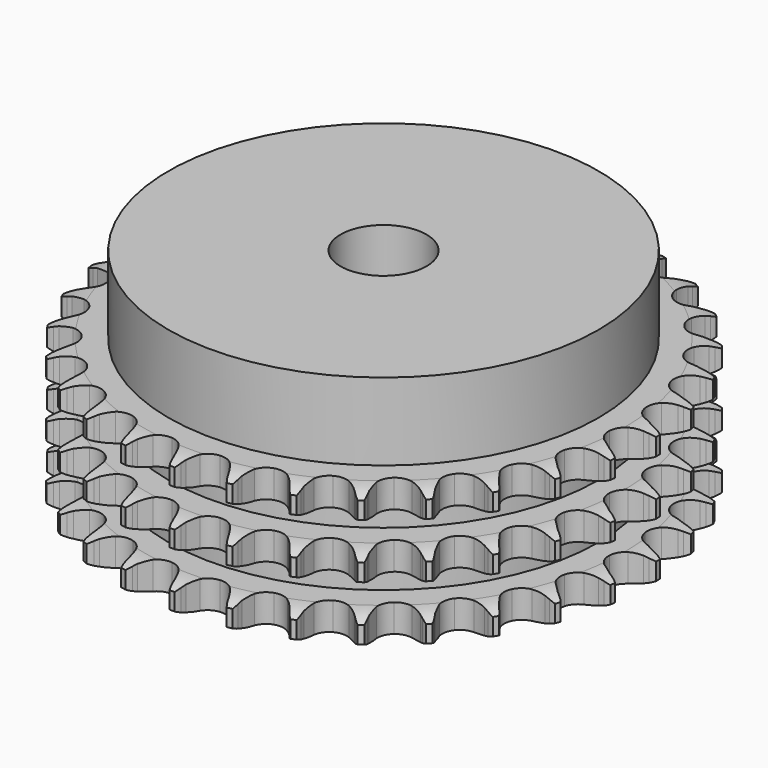
from build123d import *

# Parameters (mm, degrees)
PAD_DEPTH         = 25.6
SKETCH001_R       = 40
PAD001_DEPTH      = 40
SKETCH002_R       = 8
POCKET_DEPTH      = 0.001
POCKET_DEPTH_BACK = 40.001


with BuildPart() as part:
    # Sprocket → Pad (new body)
    with BuildSketch(Plane.XY):
        with BuildLine():
            ThreePointArc((-5.051205, 49.672555), (-4.455284, 48.887178), (-4.019635, 48.002785))
            Line((-4.019635, 48.002785), (-3.709921, 47.184961))
            ThreePointArc((-3.709921, 47.184961), (-3.217996, 46.119865), (-2.580961, 45.134672))
            ThreePointArc((-2.580961, 45.134672), (-1.442388, 44.186103), (0, 43.846037))
            ThreePointArc((0, 43.846037), (1.442388, 44.186103), (2.580961, 45.134672))
            ThreePointArc((2.580961, 45.134672), (3.217996, 46.119865), (3.709921, 47.184961))
            Line((3.709921, 47.184961), (4.019635, 48.002785))
            ThreePointArc((4.019635, 48.002785), (4.455284, 48.887178), (5.051205, 49.672555))
            ThreePointArc((5.051205, 49.672555), (5.476833, 48.783296), (5.725536, 47.829312))
            Line((5.725536, 47.829312), (5.864284, 46.965883))
            ThreePointArc((5.864284, 46.965883), (6.131737, 45.823566), (6.557414, 44.730306))
            ThreePointArc((6.557414, 44.730306), (7.481735, 43.571962), (8.826142, 42.948506))
            ThreePointArc((8.826142, 42.948506), (10.30746, 42.99126), (11.613671, 43.691219))
            Line((11.613671, 43.691219), (13.132241, 45.47228))
            ThreePointArc((13.132241, 45.47228), (13.356516, 45.847811), (13.600243, 46.211018))
            ThreePointArc((13.600243, 46.211018), (14.205, 46.989612), (14.946818, 47.638955))
            ThreePointArc((14.946818, 47.638955), (15.184727, 46.682221), (15.236304, 45.697701))
            Line((15.236304, 45.697701), (15.198405, 44.824017))
            ThreePointArc((15.198405, 44.824017), (15.230436, 43.651246), (15.427328, 42.494676))
            ThreePointArc((15.427328, 42.494676), (16.099555, 41.173979), (17.290942, 40.292658))
            ThreePointArc((17.290942, 40.292658), (18.750543, 40.03635), (20.170916, 40.459042))
            Line((20.170916, 40.459042), (22.016926, 41.897959))
            ThreePointArc((22.016926, 41.897959), (22.312204, 42.220656), (22.624054, 42.527367))
            ThreePointArc((22.624054, 42.527367), (23.373162, 43.168286), (24.230507, 43.65501))
            ThreePointArc((24.230507, 43.65501), (24.270957, 42.66997), (24.123296, 41.695221))
            Line((24.123296, 41.695221), (23.910301, 40.847051))
            ThreePointArc((23.910301, 40.847051), (23.705599, 39.691838), (23.665645, 38.519309))
            ThreePointArc((23.665645, 38.519309), (24.058257, 37.090329), (25.047847, 35.987224))
            ThreePointArc((25.047847, 35.987224), (26.425976, 35.442348), (27.902361, 35.570468))
            Line((27.902361, 35.570468), (30.000236, 36.608331))
            ThreePointArc((30.000236, 36.608331), (30.354428, 36.864983), (30.721635, 37.102641))
            ThreePointArc((30.721635, 37.102641), (31.584425, 37.579646), (32.522196, 37.883824))
            ThreePointArc((32.522196, 37.883824), (32.363531, 36.910806), (32.022676, 35.985733))
            Line((32.022676, 35.985733), (31.643306, 35.197801))
            ThreePointArc((31.643306, 35.197801), (31.210253, 34.107441), (30.935088, 32.966957))
            ThreePointArc((30.935088, 32.966957), (31.032011, 31.488196), (31.779292, 30.208469))
            ThreePointArc((31.779292, 30.208469), (33.019527, 29.397331), (34.491481, 29.225634))
            Line((34.491481, 29.225634), (36.755332, 29.819953))
            ThreePointArc((36.755332, 29.819953), (37.153937, 30.000053), (37.561468, 30.158928))
            ThreePointArc((37.561468, 30.158928), (38.502617, 30.452491), (39.482423, 30.56167))
            ThreePointArc((39.482423, 30.56167), (39.131138, 29.640508), (38.611045, 28.802986))
            Line((38.611045, 28.802986), (38.080831, 28.107549))
            ThreePointArc((38.080831, 28.107549), (37.437154, 27.126682), (36.938045, 26.064934))
            ThreePointArc((36.938045, 26.064934), (36.735311, 24.596933), (37.209688, 23.192976))
            ThreePointArc((37.209688, 23.192976), (38.261254, 22.148784), (39.668515, 21.6843))
            Line((39.668515, 21.6843), (42.005661, 21.810743))
            ThreePointArc((42.005661, 21.810743), (42.43236, 21.906918), (42.86353, 21.980505))
            ThreePointArc((42.86353, 21.980505), (43.844507, 22.078607), (44.826234, 21.988318))
            ThreePointArc((44.826234, 21.988318), (44.296712, 21.156725), (43.618673, 20.441041))
            Line((43.618673, 20.441041), (42.959322, 19.866571))
            ThreePointArc((42.959322, 19.866571), (42.131375, 19.035354), (41.428753, 18.09581))
            ThreePointArc((41.428753, 18.09581), (40.934663, 16.698668), (41.116715, 15.227959))
            ThreePointArc((41.116715, 15.227959), (41.936562, 13.993463), (43.221516, 13.255207))
            Line((43.221516, 13.255207), (45.536272, 12.908598))
            ThreePointArc((45.536272, 12.908598), (45.973598, 12.916911), (46.410754, 12.902198))
            ThreePointArc((46.410754, 12.902198), (47.391398, 12.800822), (48.334854, 12.514761))
            ThreePointArc((48.334854, 12.514761), (47.648773, 11.806783), (46.840548, 11.242237))
            Line((46.840548, 11.242237), (46.079054, 10.812253))
            ThreePointArc((46.079054, 10.812253), (45.100731, 10.164716), (44.223364, 9.385841))
            ThreePointArc((44.223364, 9.385841), (43.458146, 8.116759), (43.340419, 6.639508))
            ThreePointArc((43.340419, 6.639508), (43.894981, 5.265248), (45.005022, 4.283445))
            Line((45.005022, 4.283445), (47.202624, 3.477974))
            ThreePointArc((47.202624, 3.477974), (47.63267, 3.398084), (48.057917, 3.295673))
            ThreePointArc((48.057917, 3.295673), (48.99808, 2.99897), (49.86464, 2.528848))
            ThreePointArc((49.86464, 2.528848), (49.050088, 1.97347), (48.144765, 1.583175))
            Line((48.144765, 1.583175), (47.312303, 1.31528))
            ThreePointArc((47.312303, 1.31528), (46.223659, 0.877933), (45.207465, 0.291614))
            ThreePointArc((45.207465, 0.291614), (44.202446, -0.797452), (43.789761, -2.220765))
            ThreePointArc((43.789761, -2.220765), (44.056335, -3.678526), (44.946018, -4.863682))
            Line((44.946018, -4.863682), (46.936495, -6.095038))
            ThreePointArc((46.936495, -6.095038), (47.341656, -6.259861), (47.737582, -6.445777))
            ThreePointArc((47.737582, -6.445777), (48.598775, -6.92566), (49.352961, -7.560596))
            ThreePointArc((49.352961, -7.560596), (48.443286, -7.940637), (47.477929, -8.140703))
            Line((47.477929, -8.140703), (46.608582, -8.23554))
            ThreePointArc((46.608582, -8.23554), (45.454185, -8.444793), (44.340767, -8.814551))
            ThreePointArc((44.340767, -8.814551), (43.137094, -9.679016), (42.446345, -10.99012))
            ThreePointArc((42.446345, -10.99012), (42.414017, -12.471702), (43.046919, -13.811689))
            Line((43.046919, -13.811689), (44.74878, -15.41852))
            ThreePointArc((44.74878, -15.41852), (45.112469, -15.661527), (45.462866, -15.923336))
            ThreePointArc((45.462866, -15.923336), (46.20983, -16.566753), (46.820767, -17.340508))
            ThreePointArc((46.820767, -17.340508), (45.853211, -17.529653), (44.867342, -17.531299))
            Line((44.867342, -17.531299), (43.996699, -17.449197))
            ThreePointArc((43.996699, -17.449197), (42.823811, -17.421787), (41.658753, -17.559847))
            ThreePointArc((41.658753, -17.559847), (40.305703, -18.164319), (39.365171, -19.309538))
            ThreePointArc((39.365171, -19.309538), (39.035265, -20.754284), (39.385473, -22.194244))
            Line((39.385473, -22.194244), (40.729044, -24.110765))
            ThreePointArc((40.729044, -24.110765), (41.036372, -24.422008), (41.326894, -24.748992))
            ThreePointArc((41.326894, -24.748992), (41.929049, -25.529601), (42.371724, -26.410498))
            ThreePointArc((42.371724, -26.410498), (41.3859, -26.401004), (40.41988, -26.204162))
            Line((40.41988, -26.204162), (39.583587, -25.948481))
            ThreePointArc((39.583587, -25.948481), (38.440225, -25.685532), (37.271225, -25.586241))
            ThreePointArc((37.271225, -25.586241), (35.824193, -25.905972), (34.672382, -26.838422))
            ThreePointArc((34.672382, -26.838422), (34.058404, -28.187184), (34.111582, -29.668164))
            Line((34.111582, -29.668164), (35.041857, -31.815912))
            ThreePointArc((35.041857, -31.815912), (35.280241, -32.182649), (35.498995, -32.561422))
            ThreePointArc((35.498995, -32.561422), (35.931688, -33.447264), (36.187978, -34.399239))
            ThreePointArc((36.187978, -34.399239), (35.224245, -34.191494), (34.317624, -33.804223))
            Line((34.317624, -33.804223), (33.549918, -33.385432))
            ThreePointArc((33.549918, -33.385432), (32.482891, -32.897708), (31.357808, -32.565132))
            ThreePointArc((31.357808, -32.565132), (29.876036, -32.587033), (28.560102, -33.268537))
            ThreePointArc((28.560102, -33.268537), (27.687188, -34.466097), (27.441158, -35.927465))
            Line((27.441158, -35.927465), (27.920052, -38.218513))
            ThreePointArc((27.920052, -38.218513), (28.079733, -38.625728), (28.217762, -39.040783))
            ThreePointArc((28.217762, -39.040783), (28.463279, -39.995592), (28.522693, -40.979671))
            ThreePointArc((28.522693, -40.979671), (27.620505, -40.58218), (26.8104, -40.020336))
            Line((26.8104, -40.020336), (26.142711, -39.455579))
            ThreePointArc((26.142711, -39.455579), (25.195705, -38.763048), (24.160599, -38.210802))
            ThreePointArc((24.160599, -38.210802), (22.70475, -37.933976), (21.278568, -38.336634))
            ThreePointArc((21.278568, -38.336634), (20.182455, -39.333964), (19.647291, -40.715893))
            Line((19.647291, -40.715893), (19.655197, -43.056443))
            ThreePointArc((19.655197, -43.056443), (19.729637, -43.487466), (19.781291, -43.921809))
            ThreePointArc((19.781291, -43.921809), (19.829581, -44.906496), (19.689684, -45.88239))
            ThreePointArc((19.689684, -45.88239), (18.885979, -45.311428), (18.205555, -44.598011))
            Line((18.205555, -44.598011), (17.665218, -43.91041))
            ThreePointArc((17.665218, -43.91041), (16.877003, -43.041424), (15.974252, -42.292118))
            ThreePointArc((15.974252, -42.292118), (14.603929, -41.727898), (13.125887, -41.835225))
            ThreePointArc((13.125887, -41.835225), (11.851451, -42.591494), (11.04906, -43.837406))
            Line((11.04906, -43.837406), (10.585656, -46.131637))
            ThreePointArc((10.585656, -46.131637), (10.571807, -46.568822), (10.534972, -47.004672))
            ThreePointArc((10.534972, -47.004672), (10.384057, -47.978923), (10.050578, -48.906679))
            ThreePointArc((10.050578, -48.906679), (9.378259, -48.18562), (8.855373, -47.349838))
            Line((8.855373, -47.349838), (8.46451, -46.567543))
            ThreePointArc((8.46451, -46.567543), (7.867355, -45.557679), (7.133918, -44.641989))
            ThreePointArc((7.133918, -44.641989), (5.905222, -43.813475), (4.43583, -43.621077))
            ThreePointArc((4.43583, -43.621077), (3.035246, -44.105323), (1.99848, -45.164212))
            Line((1.99848, -45.164212), (1.082737, -47.318196))
            ThreePointArc((1.082737, -47.318196), (0.981167, -47.743644), (0.857349, -48.163158))
            ThreePointArc((0.857349, -48.163158), (0.513409, -49.087087), (0, -49.928723))
            ThreePointArc((0, -49.928723), (-0.513409, -49.087087), (-0.857349, -48.163158))
            Line((-0.857349, -48.163158), (-1.082737, -47.318196))
            ThreePointArc((-1.082737, -47.318196), (-1.464384, -46.208798), (-1.99848, -45.164212))
            ThreePointArc((-1.99848, -45.164212), (-3.035246, -44.105323), (-4.43583, -43.621077))
            ThreePointArc((-4.43583, -43.621077), (-5.905222, -43.813475), (-7.133918, -44.641989))
            Line((-7.133918, -44.641989), (-8.46451, -46.567543))
            ThreePointArc((-8.46451, -46.567543), (-8.649642, -46.963837), (-8.855373, -47.349838))
            ThreePointArc((-8.855373, -47.349838), (-9.378259, -48.18562), (-10.050578, -48.906679))
            ThreePointArc((-10.050578, -48.906679), (-10.384057, -47.978923), (-10.534972, -47.004672))
            Line((-10.534972, -47.004672), (-10.585656, -46.131637))
            ThreePointArc((-10.585656, -46.131637), (-10.73617, -44.968123), (-11.04906, -43.837406))
            ThreePointArc((-11.04906, -43.837406), (-11.851451, -42.591494), (-13.125887, -41.835225))
            ThreePointArc((-13.125887, -41.835225), (-14.603929, -41.727898), (-15.974252, -42.292118))
            Line((-15.974252, -42.292118), (-17.665218, -43.91041))
            ThreePointArc((-17.665218, -43.91041), (-17.926335, -44.261324), (-18.205555, -44.598011))
            ThreePointArc((-18.205555, -44.598011), (-18.885979, -45.311428), (-19.689684, -45.88239))
            ThreePointArc((-19.689684, -45.88239), (-19.829581, -44.906496), (-19.781291, -43.921809))
            Line((-19.781291, -43.921809), (-19.655197, -43.056443))
            ThreePointArc((-19.655197, -43.056443), (-19.568417, -41.886447), (-19.647291, -40.715893))
            ThreePointArc((-19.647291, -40.715893), (-20.182455, -39.333964), (-21.278568, -38.336634))
            ThreePointArc((-21.278568, -38.336634), (-22.70475, -37.933976), (-24.160599, -38.210802))
            Line((-24.160599, -38.210802), (-26.142711, -39.455579))
            ThreePointArc((-26.142711, -39.455579), (-26.46912, -39.746747), (-26.8104, -40.020336))
            ThreePointArc((-26.8104, -40.020336), (-27.620505, -40.58218), (-28.522693, -40.979671))
            ThreePointArc((-28.522693, -40.979671), (-28.463279, -39.995592), (-28.217762, -39.040783))
            Line((-28.217762, -39.040783), (-27.920052, -38.218513))
            ThreePointArc((-27.920052, -38.218513), (-27.59953, -37.089936), (-27.441158, -35.927465))
            ThreePointArc((-27.441158, -35.927465), (-27.687188, -34.466097), (-28.560102, -33.268537))
            ThreePointArc((-28.560102, -33.268537), (-29.876036, -32.587033), (-31.357808, -32.565132))
            Line((-31.357808, -32.565132), (-33.549918, -33.385432))
            ThreePointArc((-33.549918, -33.385432), (-33.928257, -33.604934), (-34.317624, -33.804223))
            ThreePointArc((-34.317624, -33.804223), (-35.224245, -34.191494), (-36.187978, -34.399239))
            ThreePointArc((-36.187978, -34.399239), (-35.931688, -33.447264), (-35.498995, -32.561422))
            Line((-35.498995, -32.561422), (-35.041857, -31.815912))
            ThreePointArc((-35.041857, -31.815912), (-34.500715, -30.774958), (-34.111582, -29.668164))
            ThreePointArc((-34.111582, -29.668164), (-34.058404, -28.187184), (-34.672382, -26.838422))
            ThreePointArc((-34.672382, -26.838422), (-35.824193, -25.905972), (-37.271225, -25.586241))
            Line((-37.271225, -25.586241), (-39.583587, -25.948481))
            ThreePointArc((-39.583587, -25.948481), (-39.998368, -26.087331), (-40.41988, -26.204162))
            ThreePointArc((-40.41988, -26.204162), (-41.3859, -26.401004), (-42.371724, -26.410498))
            ThreePointArc((-42.371724, -26.410498), (-41.929049, -25.529601), (-41.326894, -24.748992))
            Line((-41.326894, -24.748992), (-40.729044, -24.110765))
            ThreePointArc((-40.729044, -24.110765), (-39.989437, -23.20005), (-39.385473, -22.194244))
            ThreePointArc((-39.385473, -22.194244), (-39.035265, -20.754284), (-39.365171, -19.309538))
            ThreePointArc((-39.365171, -19.309538), (-40.305703, -18.164319), (-41.658753, -17.559847))
            Line((-41.658753, -17.559847), (-43.996699, -17.449197))
            ThreePointArc((-43.996699, -17.449197), (-44.43094, -17.50171), (-44.867342, -17.531299))
            ThreePointArc((-44.867342, -17.531299), (-45.853211, -17.529653), (-46.820767, -17.340508))
            ThreePointArc((-46.820767, -17.340508), (-46.20983, -16.566753), (-45.462866, -15.923336))
            Line((-45.462866, -15.923336), (-44.74878, -15.41852))
            ThreePointArc((-44.74878, -15.41852), (-43.840987, -14.675329), (-43.046919, -13.811689))
            ThreePointArc((-43.046919, -13.811689), (-42.414017, -12.471702), (-42.446345, -10.99012))
            ThreePointArc((-42.446345, -10.99012), (-43.137094, -9.679016), (-44.340767, -8.814551))
            Line((-44.340767, -8.814551), (-46.608582, -8.23554))
            ThreePointArc((-46.608582, -8.23554), (-47.044504, -8.199567), (-47.477929, -8.140703))
            ThreePointArc((-47.477929, -8.140703), (-48.443286, -7.940637), (-49.352961, -7.560596))
            ThreePointArc((-49.352961, -7.560596), (-48.598775, -6.92566), (-47.737582, -6.445777))
            Line((-47.737582, -6.445777), (-46.936495, -6.095038))
            ThreePointArc((-46.936495, -6.095038), (-45.897681, -5.549798), (-44.946018, -4.863682))
            ThreePointArc((-44.946018, -4.863682), (-44.056335, -3.678526), (-43.789761, -2.220765))
            ThreePointArc((-43.789761, -2.220765), (-44.202446, -0.797452), (-45.207465, 0.291614))
            Line((-45.207465, 0.291614), (-47.312303, 1.31528))
            ThreePointArc((-47.312303, 1.31528), (-47.732061, 1.438268), (-48.144765, 1.583175))
            ThreePointArc((-48.144765, 1.583175), (-49.050088, 1.97347), (-49.86464, 2.528848))
            ThreePointArc((-49.86464, 2.528848), (-48.99808, 2.99897), (-48.057917, 3.295673))
            Line((-48.057917, 3.295673), (-47.202624, 3.477974))
            ThreePointArc((-47.202624, 3.477974), (-46.075319, 3.802942), (-45.005022, 4.283445))
            ThreePointArc((-45.005022, 4.283445), (-43.894981, 5.265248), (-43.340419, 6.639508))
            ThreePointArc((-43.340419, 6.639508), (-43.458146, 8.116759), (-44.223364, 9.385841))
            Line((-44.223364, 9.385841), (-46.079054, 10.812253))
            ThreePointArc((-46.079054, 10.812253), (-46.465462, 11.01722), (-46.840548, 11.242237))
            ThreePointArc((-46.840548, 11.242237), (-47.648773, 11.806783), (-48.334854, 12.514761))
            ThreePointArc((-48.334854, 12.514761), (-47.391398, 12.800822), (-46.410754, 12.902198))
            Line((-46.410754, 12.902198), (-45.536272, 12.908598))
            ThreePointArc((-45.536272, 12.908598), (-44.366628, 12.999989), (-43.221516, 13.255207))
            ThreePointArc((-43.221516, 13.255207), (-41.936562, 13.993463), (-41.116715, 15.227959))
            ThreePointArc((-41.116715, 15.227959), (-40.934663, 16.698668), (-41.428753, 18.09581))
            Line((-41.428753, 18.09581), (-42.959322, 19.866571))
            ThreePointArc((-42.959322, 19.866571), (-43.296561, 20.145125), (-43.618673, 20.441041))
            ThreePointArc((-43.618673, 20.441041), (-44.296712, 21.156725), (-44.826234, 21.988318))
            ThreePointArc((-44.826234, 21.988318), (-43.844507, 22.078607), (-42.86353, 21.980505))
            Line((-42.86353, 21.980505), (-42.005661, 21.810743))
            ThreePointArc((-42.005661, 21.810743), (-40.841562, 21.664815), (-39.668515, 21.6843))
            ThreePointArc((-39.668515, 21.6843), (-38.261254, 22.148784), (-37.209688, 23.192976))
            ThreePointArc((-37.209688, 23.192976), (-36.735311, 24.596933), (-36.938045, 26.064934))
            Line((-36.938045, 26.064934), (-38.080831, 28.107549))
            ThreePointArc((-38.080831, 28.107549), (-38.355094, 28.448287), (-38.611045, 28.802986))
            ThreePointArc((-38.611045, 28.802986), (-39.131138, 29.640508), (-39.482423, 30.56167))
            ThreePointArc((-39.482423, 30.56167), (-38.502617, 30.452491), (-37.561468, 30.158928))
            Line((-37.561468, 30.158928), (-36.755332, 29.819953))
            ThreePointArc((-36.755332, 29.819953), (-35.644438, 29.442681), (-34.491481, 29.225634))
            ThreePointArc((-34.491481, 29.225634), (-33.019527, 29.397331), (-31.779292, 30.208469))
            ThreePointArc((-31.779292, 30.208469), (-31.032011, 31.488196), (-30.935088, 32.966957))
            Line((-30.935088, 32.966957), (-31.643306, 35.197801))
            ThreePointArc((-31.643306, 35.197801), (-31.843365, 35.586773), (-32.022676, 35.985733))
            ThreePointArc((-32.022676, 35.985733), (-32.363531, 36.910806), (-32.522196, 37.883824))
            ThreePointArc((-32.522196, 37.883824), (-31.584425, 37.579646), (-30.721635, 37.102641))
            Line((-30.721635, 37.102641), (-30.000236, 36.608331))
            ThreePointArc((-30.000236, 36.608331), (-28.988026, 36.01516), (-27.902361, 35.570468))
            ThreePointArc((-27.902361, 35.570468), (-26.425976, 35.442348), (-25.047847, 35.987224))
            ThreePointArc((-25.047847, 35.987224), (-24.058257, 37.090329), (-23.665645, 38.519309))
            Line((-23.665645, 38.519309), (-23.910301, 40.847051))
            ThreePointArc((-23.910301, 40.847051), (-24.027964, 41.268332), (-24.123296, 41.695221))
            ThreePointArc((-24.123296, 41.695221), (-24.270957, 42.66997), (-24.230507, 43.65501))
            ThreePointArc((-24.230507, 43.65501), (-23.373162, 43.168286), (-22.624054, 42.527367))
            Line((-22.624054, 42.527367), (-22.016926, 41.897959))
            ThreePointArc((-22.016926, 41.897959), (-21.144841, 41.113174), (-20.170916, 40.459042))
            ThreePointArc((-20.170916, 40.459042), (-18.750543, 40.03635), (-17.290942, 40.292658))
            ThreePointArc((-17.290942, 40.292658), (-16.099555, 41.173979), (-15.427328, 42.494676))
            Line((-15.427328, 42.494676), (-15.198405, 44.824017))
            ThreePointArc((-15.198405, 44.824017), (-15.228856, 45.26036), (-15.236304, 45.697701))
            ThreePointArc((-15.236304, 45.697701), (-15.184727, 46.682221), (-14.946818, 47.638955))
            ThreePointArc((-14.946818, 47.638955), (-14.205, 46.989612), (-13.600243, 46.211018))
            Line((-13.600243, 46.211018), (-13.132241, 45.47228))
            ThreePointArc((-13.132241, 45.47228), (-12.435984, 44.528011), (-11.613671, 43.691219))
            ThreePointArc((-11.613671, 43.691219), (-10.30746, 42.99126), (-8.826142, 42.948506))
            ThreePointArc((-8.826142, 42.948506), (-7.481735, 43.571962), (-6.557414, 44.730306))
            Line((-6.557414, 44.730306), (-5.864284, 46.965883))
            ThreePointArc((-5.864284, 46.965883), (-5.806277, 47.399424), (-5.725536, 47.829312))
            ThreePointArc((-5.725536, 47.829312), (-5.476833, 48.783296), (-5.051205, 49.672555))
        make_face()
    extrude(amount=PAD_DEPTH)

    # Sketch → Groove (revolve, cut)
    with BuildSketch(Plane.XZ):
        with BuildLine():
            ThreePointArc((44.791101, 0), (47.027169, 0.253206), (49.15, 1))
            Line((49.15, 1), (49.15, 4.2))
            ThreePointArc((49.15, 4.2), (47.027169, 4.946794), (44.791101, 5.2))
            Line((40, 5.2), (44.791101, 5.2))
            Line((40, 5.2), (40, 10.2))
            Line((40, 10.2), (44.791101, 10.2))
            ThreePointArc((44.791101, 10.2), (47.027169, 10.453206), (49.15, 11.2))
            Line((49.15, 14.4), (49.15, 11.2))
            ThreePointArc((49.15, 14.4), (47.027169, 15.146794), (44.791101, 15.4))
            Line((40, 15.4), (44.791101, 15.4))
            Line((40, 20.4), (40, 15.4))
            Line((44.791101, 20.4), (40, 20.4))
            ThreePointArc((44.791101, 20.4), (47.027169, 20.653206), (49.15, 21.4))
            Line((49.15, 21.4), (49.15, 24.6))
            ThreePointArc((49.15, 24.6), (47.027169, 25.346794), (44.791101, 25.6))
            Line((44.791101, 25.6), (59.15, 25.6))
            Line((59.15, 25.6), (59.15, 0))
            Line((44.791101, 0), (59.15, 0))
        make_face()
    revolve(axis=Axis((0, 0, 0), (0, 0, 1)), mode=Mode.SUBTRACT)

    # Sketch001 → Pad001 (join)
    with BuildSketch(Plane.XY):
        Circle(SKETCH001_R)
    extrude(amount=PAD001_DEPTH)

    # Sketch002 → Pocket (cut, two sides)
    with BuildSketch(Plane.XY) as pocket_sk:
        Circle(SKETCH002_R)
    extrude(amount=-POCKET_DEPTH, mode=Mode.SUBTRACT)
    extrude(pocket_sk.sketch, amount=POCKET_DEPTH_BACK, mode=Mode.SUBTRACT)


solid = part.part
